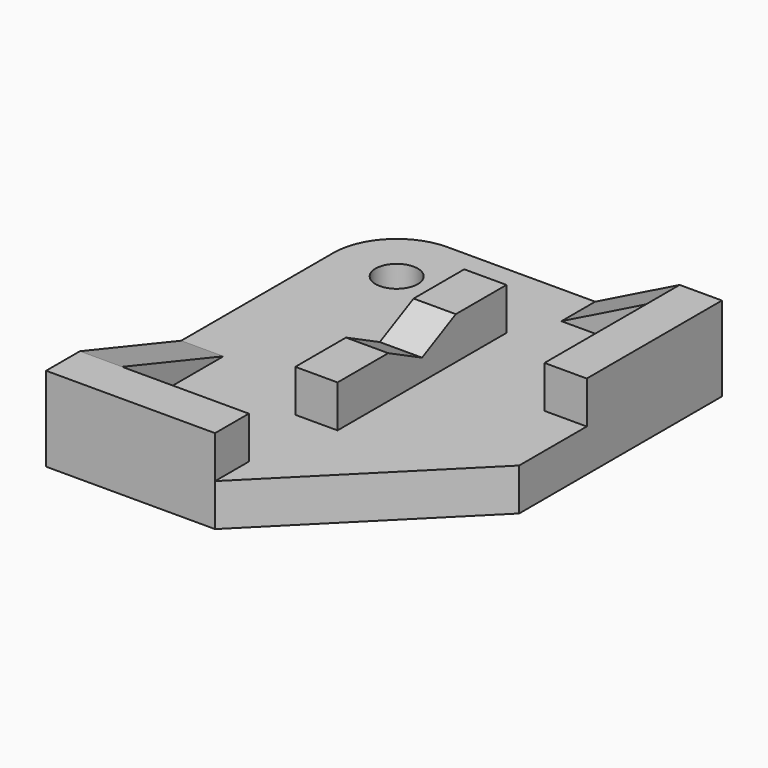
from build123d import *

# Parameters (mm, degrees)
SKETCH_W        = 16
SKETCH_H        = 20
PAD_DEPTH       = 2
POCKET_DEPTH    = 2
SKETCH002_W     = 8
SKETCH002_H     = 2
SKETCH002_W_2   = 2
SKETCH002_H_2   = 8
SKETCH002_W_3   = 4
SKETCH002_H_3   = 6
PAD001_DEPTH    = 2
POCKET001_DEPTH = 2
POCKET002_DEPTH = 2
FILLET_R        = 3
SKETCH005_R     = 1
POCKET003_DEPTH = 2
SKETCH006_W     = 2
SKETCH006_H     = 10
PAD002_DEPTH    = 2
POCKET004_DEPTH = 2


with BuildPart() as part:
    # Sketch → Pad (new body)
    with BuildSketch(Plane.XY):
        with Locations((8, 10)):
            Rectangle(SKETCH_W, SKETCH_H)
    extrude(amount=PAD_DEPTH)

    # Sketch001 (on Face6 of Pad) → Pocket (cut)
    with BuildSketch(Plane.XY.offset(2)):
        Polygon((8, 0), (16, 0), (16, 8), align=None)
    extrude(amount=-POCKET_DEPTH, mode=Mode.SUBTRACT)

    # Sketch002 (on Face4 of Pocket) → Pad001 (join)
    with BuildSketch(Plane.XY.offset(2)):
        with Locations((4, 1)):
            Rectangle(SKETCH002_W, SKETCH002_H)
        with Locations((15, 16)):
            Rectangle(SKETCH002_W_2, SKETCH002_H_2)
        with Locations((12, 19)):
            Rectangle(SKETCH002_W_3, SKETCH002_H)
        with Locations((1, 5)):
            Rectangle(SKETCH002_W_2, SKETCH002_H_3)
    extrude(amount=PAD001_DEPTH)

    # Sketch003 (on Face17 of Pad001) → Pocket001 (cut)
    with BuildSketch(Plane.XZ.offset(-18)):
        Polygon((10, 2), (14, 4), (10, 4), align=None)
    extrude(amount=-POCKET001_DEPTH, mode=Mode.SUBTRACT)

    # Sketch004 (on Face21 of Pocket001) → Pocket002 (cut)
    with BuildSketch(Plane.YZ.offset(2)):
        Polygon((2, 4), (8, 2), (8, 4), align=None)
    extrude(amount=-POCKET002_DEPTH, mode=Mode.SUBTRACT)

    # Fillet
    fillet_edges = [part.edges().sort_by_distance(p)[0] for p in [
        (0, 20, 1),
    ]]
    fillet(fillet_edges, radius=FILLET_R)

    # Sketch005 (on Face8 of Fillet) → Pocket003 (cut)
    with BuildSketch(Plane.XY.offset(2)):
        with Locations((3, 17)):
            Circle(SKETCH005_R)
    extrude(amount=-POCKET003_DEPTH, mode=Mode.SUBTRACT)

    # Sketch006 (on Face9 of Pocket003) → Pad002 (join)
    with BuildSketch(Plane.XY.offset(2)):
        with Locations((8, 11)):
            Rectangle(SKETCH006_W, SKETCH006_H)
    extrude(amount=PAD002_DEPTH)

    # Sketch007 (on Face25 of Pad002) → Pocket004 (cut)
    with BuildSketch(Plane.YZ.offset(9)):
        Polygon((9, 4), (13, 4), (11, 3), align=None)
    extrude(amount=-POCKET004_DEPTH, mode=Mode.SUBTRACT)


solid = part.part
